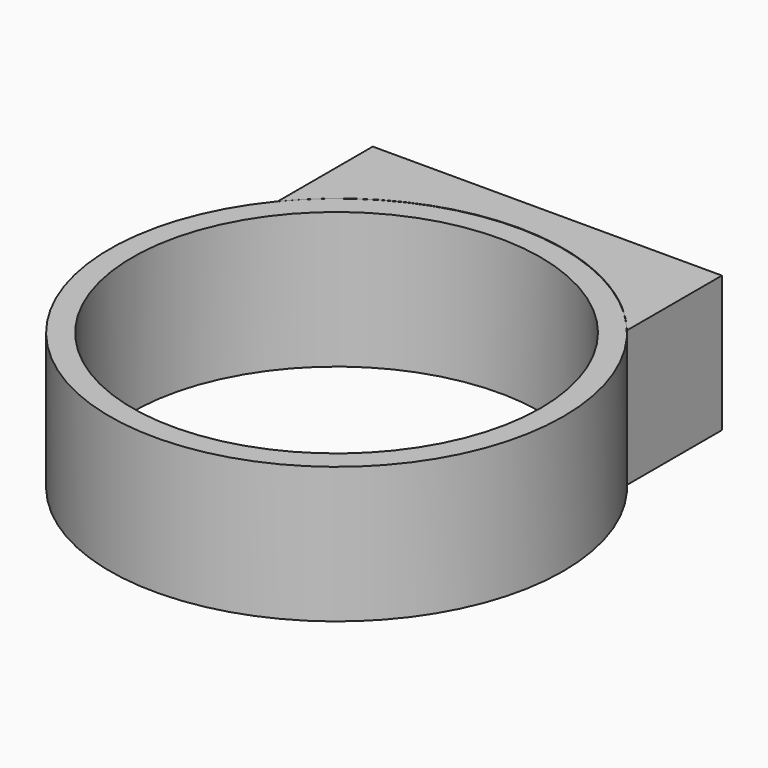
from build123d import *

# Parameters (mm, degrees)
F0_R     = 10
F0_R_2   = 9
F1_DEPTH = 6
F3_DEPTH = 6


with BuildPart() as f1:
    # F0 (on Top) → F1 (new body)
    with BuildSketch(Plane.XY):
        Circle(F0_R)
        Circle(F0_R_2, mode=Mode.SUBTRACT)
    extrude(amount=F1_DEPTH)


with BuildPart() as f3:
    # F2 (on face) → F3 (new body)
    with BuildSketch(Plane.XY.offset(6)):
        with BuildLine():
            Line((7.696345, 6.384848), (7.696345, 11.615152))
            Line((7.696345, 11.615152), (-7.696345, 11.615152))
            Line((-7.696345, 11.615152), (-7.696345, 6.384848))
            ThreePointArc((-7.696345, 6.384848), (0, 10.030127), (7.696345, 6.384848))
        make_face()
    extrude(amount=-F3_DEPTH)


solid = Compound([f1.part, f3.part])
